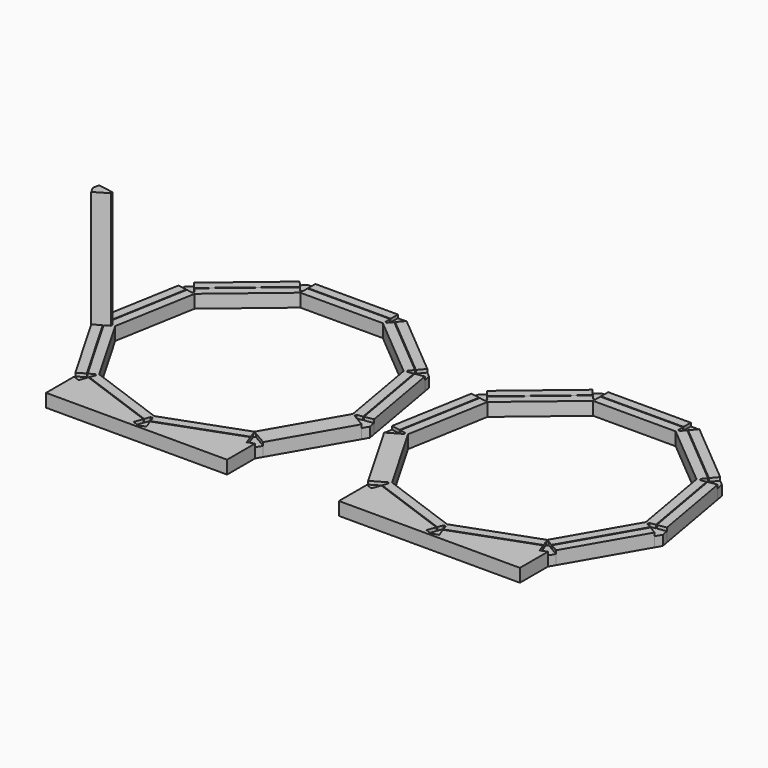
from build123d import *

# Parameters (mm, degrees)
F0_W     = 50.289567
F0_H     = 5.503927
F1_DEPTH = 8
F2_DEPTH = 2
F4_DEPTH = 73
F5_SCALE = 1.5


with BuildPart() as f1:
    # F0 (on Top) → F1 (new body)
    with BuildSketch(Plane.XY):
        Polygon((-21.657781, 44.499399), (-18.10451, 48.733637), (-56.603323, 81.036317), (-60.155432, 76.802854), align=None)
        Polygon((-10.867355, -8.51403), (-5.456834, -7.560212), (-14.179944, 41.935991), (-19.59473, 40.981398), align=None)
        Polygon((-171.4529, -15.311677), (-146.303273, -58.833826), (-141.554338, -56.091745), (-166.6873, -12.560295), align=None)
        Polygon((-164.074669, 41.945292), (-172.815995, -7.581528), (-167.374467, -8.540773), (-158.64128, 40.987212), align=None)
        with Locations((-89.1240125, 80.9690725)):
            Rectangle(F0_W, F0_H)
        Polygon((-121.6413501336, 81.0323235532), (-160.150102, 48.742939), (-156.637138, 44.556373), (-118.145302, 76.854789), align=None)
        Polygon((-40.239207, -54.037995), (-31.944751, -58.826462), (-6.81954, -15.290361), (-15.113995, -10.501506), (-14.888816, -9.223289), (-11.31074, -8.592319), (-20.038113, 40.903108), (-23.611926, 40.272915), (-24.261111, 41.396876), (-21.946913, 44.154459), (-60.444948, 76.457914), (-62.759537, 73.699555), (-63.979229, 74.143327), (-63.979229, 77.767136), (-114.268796, 77.767136), (-114.268796, 74.143327), (-115.488488, 73.699555), (-117.856172, 76.509849), (-156.347621, 44.211433), (-153.993501, 41.406177), (-154.642686, 40.281828), (-158.197896, 40.908921), (-166.931083, -8.619063), (-163.383626, -9.244605), (-163.158445, -10.522822), (-166.297401, -12.335114), (-141.164438, -55.866953), (-138.008818, -54.044972), (-137.014694, -54.879028), (-138.274305, -58.340058), (-91.042306, -75.530869), (-89.805947, -72.134177), (-88.507965, -72.134177), (-87.294472, -75.46847), (-40.00201, -58.255567), (-41.233331, -54.872053), align=None)
        Polygon((-89.126955, -70.294338), (-136.362838, -53.101872), (-161.496515, -9.569031), (-152.767706, 39.934676), (-114.260631, 72.245916), (-63.993278, 72.245916), (-25.486224, 39.934676), (-16.757395, -9.569031), (-41.891071, -53.101872), align=None, mode=Mode.SUBTRACT)
        Polygon((-144.215028, -62.450659), (-144.212192, -83.721036), (-34.041717, -83.721036), (-34.032995, -62.443684), (-37.957562, -63.872279), (-39.848144, -58.67841), (-87.140606, -75.891311), (-85.232195, -81.134016), (-89.156762, -82.562611), (-93.081328, -81.134016), (-91.196172, -75.953712), (-138.428172, -58.762901), (-140.290462, -63.879254), align=None)
        Polygon((-146.303273, -58.833826), (-144.215028, -62.450659), (-140.290462, -63.879254), (-138.428172, -58.762901), (-91.196172, -75.953712), (-93.081328, -81.134016), (-89.156762, -82.562611), (-85.232195, -81.134016), (-87.140606, -75.891311), (-39.848144, -58.67841), (-37.957562, -63.872279), (-34.032995, -62.443684), (-31.944751, -58.826462), (-40.239207, -54.037995), (-41.233331, -54.872053), (-40.00201, -58.255567), (-87.294472, -75.46847), (-88.507965, -72.134177), (-89.805947, -72.134177), (-91.042306, -75.530869), (-138.274305, -58.340058), (-137.014694, -54.879028), (-138.008818, -54.044972), (-141.164438, -55.866953), (-166.297401, -12.335114), (-163.158445, -10.522822), (-163.383626, -9.244605), (-166.931083, -8.619063), (-158.197896, 40.908921), (-154.642686, 40.281828), (-153.993501, 41.406177), (-156.347621, 44.211433), (-117.856172, 76.509849), (-115.488488, 73.699555), (-114.268796, 74.143327), (-114.268796, 77.767136), (-63.979229, 77.767136), (-63.979229, 74.143327), (-62.759537, 73.699555), (-60.444948, 76.457914), (-21.946913, 44.154459), (-24.261111, 41.396876), (-23.611926, 40.272915), (-20.038113, 40.903108), (-11.31074, -8.592319), (-14.888816, -9.223289), (-15.113995, -10.501506), (-6.81954, -15.290361), (-4.731297, -11.673528), (-5.456834, -7.560212), (-10.867355, -8.51403), (-19.59473, 40.981398), (-14.179944, 41.935991), (-14.905094, 46.048918), (-18.10451, 48.733637), (-21.657781, 44.499399), (-60.155432, 76.802854), (-56.603323, 81.036317), (-59.802741, 83.721036), (-63.979229, 83.721036), (-63.979229, 78.217109), (-114.268796, 78.217109), (-114.268796, 83.721036), (-118.445284, 83.721036), (-121.644701, 81.036317), (-121.6413501336, 81.0323235532), (-118.145302, 76.854789), (-156.637138, 44.556373), (-160.150102, 48.742939), (-163.349519, 46.058219), (-164.074669, 41.945292), (-158.64128, 40.987212), (-167.374467, -8.540773), (-172.815995, -7.581528), (-173.541145, -11.694844), (-171.4529, -15.311677), (-166.6873, -12.560295), (-141.554338, -56.091745), align=None)
    extrude(amount=-F1_DEPTH)

    # F0 (on Top) → F2 (cut)
    with BuildSketch(Plane.XY):
        Polygon((-146.303273, -58.833826), (-144.215028, -62.450659), (-140.290462, -63.879254), (-138.428172, -58.762901), (-91.196172, -75.953712), (-93.081328, -81.134016), (-89.156762, -82.562611), (-85.232195, -81.134016), (-87.140606, -75.891311), (-39.848144, -58.67841), (-37.957562, -63.872279), (-34.032995, -62.443684), (-31.944751, -58.826462), (-40.239207, -54.037995), (-41.233331, -54.872053), (-40.00201, -58.255567), (-87.294472, -75.46847), (-88.507965, -72.134177), (-89.805947, -72.134177), (-91.042306, -75.530869), (-138.274305, -58.340058), (-137.014694, -54.879028), (-138.008818, -54.044972), (-141.164438, -55.866953), (-166.297401, -12.335114), (-163.158445, -10.522822), (-163.383626, -9.244605), (-166.931083, -8.619063), (-158.197896, 40.908921), (-154.642686, 40.281828), (-153.993501, 41.406177), (-156.347621, 44.211433), (-117.856172, 76.509849), (-115.488488, 73.699555), (-114.268796, 74.143327), (-114.268796, 77.767136), (-63.979229, 77.767136), (-63.979229, 74.143327), (-62.759537, 73.699555), (-60.444948, 76.457914), (-21.946913, 44.154459), (-24.261111, 41.396876), (-23.611926, 40.272915), (-20.038113, 40.903108), (-11.31074, -8.592319), (-14.888816, -9.223289), (-15.113995, -10.501506), (-6.81954, -15.290361), (-4.731297, -11.673528), (-5.456834, -7.560212), (-10.867355, -8.51403), (-19.59473, 40.981398), (-14.179944, 41.935991), (-14.905094, 46.048918), (-18.10451, 48.733637), (-21.657781, 44.499399), (-60.155432, 76.802854), (-56.603323, 81.036317), (-59.802741, 83.721036), (-63.979229, 83.721036), (-63.979229, 78.217109), (-114.268796, 78.217109), (-114.268796, 83.721036), (-118.445284, 83.721036), (-121.644701, 81.036317), (-121.6413501336, 81.0323235532), (-118.145302, 76.854789), (-156.637138, 44.556373), (-160.150102, 48.742939), (-163.349519, 46.058219), (-164.074669, 41.945292), (-158.64128, 40.987212), (-167.374467, -8.540773), (-172.815995, -7.581528), (-173.541145, -11.694844), (-171.4529, -15.311677), (-166.6873, -12.560295), (-141.554338, -56.091745), align=None)
    extrude(amount=-F2_DEPTH, mode=Mode.SUBTRACT)


with BuildPart() as f4:
    # F3 (on face) → F4 (new body)
    with BuildSketch(Plane.XY.offset(-2)):
        Polygon((-163.383626, -9.244605), (-172.815995, -7.581528), (-173.541145, -11.694844), (-171.4529, -15.311677), (-163.158445, -10.522822), align=None)
    extrude(amount=F4_DEPTH)


with BuildPart() as f1_1:
    # F5: moved
    add(f1.part.scale(F5_SCALE))


with BuildPart() as f4_1:
    # F5: moved
    add(f4.part.scale(F5_SCALE))


with BuildPart() as f6_1:
    # F6: instance of F1
    add(f1_1.part.mirror(Plane.YZ))


solid = Compound([f1_1.part, f4_1.part, f6_1.part])
